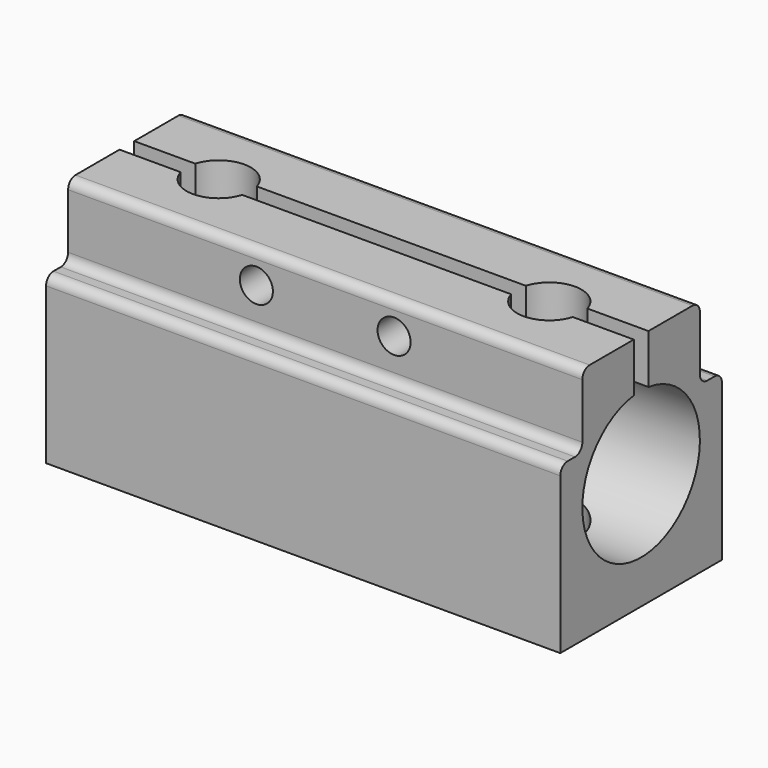
from build123d import *

# Parameters (mm, degrees)
BOX_W           = 56
BOX_H           = 22
BOX_DEPTH       = 26
SKETCH_R        = 8
POCKET_DEPTH    = 56.001
SKETCH001_R     = 3.5
POCKET001_DEPTH = 23
SKETCH002_R     = 1.8
POCKET002_DEPTH = 5
SKETCH003_R     = 1.8
POCKET003_DEPTH = 22.001
SKETCH004_W     = 2
SKETCH004_H     = 11.298807
SKETCH004_W_2   = 3
SKETCH004_H_2   = 8
POCKET004_DEPTH = 56.001
FILLET_R        = 1


with BuildPart() as part:
    # Box → Box (new body)
    with BuildSketch(Plane.XY):
        with Locations((28, 11)):
            Rectangle(BOX_W, BOX_H)
    extrude(amount=BOX_DEPTH)

    # Sketch → Pocket (cut, through all)
    with BuildSketch(Plane.YZ.offset(56)):
        with Locations((11, 12.7)):
            Circle(SKETCH_R)
    extrude(amount=-POCKET_DEPTH, mode=Mode.SUBTRACT)

    # Sketch001 → Pocket001 (cut)
    with BuildSketch(Plane.XY.offset(26)):
        with Locations((10, 11)):
            Circle(SKETCH001_R)
        with Locations((46, 11)):
            Circle(SKETCH001_R)
    extrude(amount=-POCKET001_DEPTH, mode=Mode.SUBTRACT)

    # Sketch002 → Pocket002 (cut)
    with BuildSketch(Plane(origin=(0, 0, 0), x_dir=(1, 0, 0), z_dir=(0, 0, -1))):
        with Locations((10, -11)):
            Circle(SKETCH002_R)
        with Locations((46, -11)):
            Circle(SKETCH002_R)
    extrude(amount=-POCKET002_DEPTH, mode=Mode.SUBTRACT)

    # Sketch003 → Pocket003 (cut, through all)
    with BuildSketch(Plane(origin=(0, 22, 0), x_dir=(-1, 0, 0), z_dir=(0, 1, 0))):
        with Locations((-35.5, 22.5)):
            Circle(SKETCH003_R)
        with Locations((-20.5, 22.5)):
            Circle(SKETCH003_R)
    extrude(amount=-POCKET003_DEPTH, mode=Mode.SUBTRACT)

    # Sketch004 → Pocket004 (cut, through all)
    with BuildSketch(Plane.YZ.offset(56)):
        with Locations((11, 23.747477)):
            Rectangle(SKETCH004_W, SKETCH004_H)
        with Locations((1.5, 22)):
            Rectangle(SKETCH004_W_2, SKETCH004_H_2)
        with Locations((20.5, 22)):
            Rectangle(SKETCH004_W_2, SKETCH004_H_2)
    extrude(amount=-POCKET004_DEPTH, mode=Mode.SUBTRACT)

    # Fillet
    fillet_edges = [part.edges().sort_by_distance(p)[0] for p in [
        (28, 0, 18),
        (28, 3, 18),
        (28, 3, 26),
        (28, 19, 26),
        (28, 19, 18),
        (28, 22, 18),
    ]]
    fillet(fillet_edges, radius=FILLET_R)


solid = part.part
